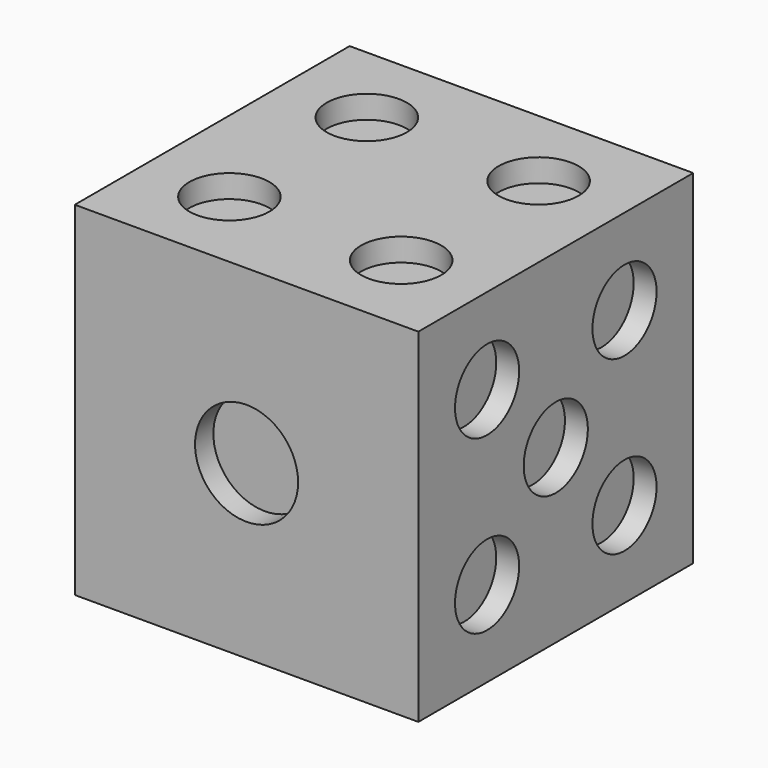
from build123d import *

# Parameters (mm, degrees)
F0_W      = 30
F0_H      = 30
F1_DEPTH  = 15
F2_R      = 4.5
F3_DEPTH  = 2
F5_R      = 3.5
F6_DEPTH  = 2
F7_R      = 3.5
F8_DEPTH  = 2
F9_R      = 3.5
F10_DEPTH = 2
F11_R     = 3.5
F12_DEPTH = 2
F13_R     = 3.5
F14_DEPTH = 2


with BuildPart() as f1:
    # F0 (on Front) → F1 (new body, symmetric)
    with BuildSketch(Plane.XZ):
        Rectangle(F0_W, F0_H)
    extrude(amount=F1_DEPTH, both=True)

    # F2 (on face) → F3 (cut)
    with BuildSketch(Plane.XZ.offset(15)):
        Circle(F2_R)
    extrude(amount=-F3_DEPTH, mode=Mode.SUBTRACT)

    # F5 (on face) → F6 (cut)
    with BuildSketch(Plane(origin=(0, 15, 0), x_dir=(-1, 0, 0), z_dir=(0, 1, 0))):
        with Locations((-7.5, 0)):
            Circle(F5_R)
        with Locations((-7.5, 9.25)):
            Circle(F5_R)
        with Locations((-7.5, -9.25)):
            Circle(F5_R)
        with Locations((7.5, 0)):
            Circle(F5_R)
        with Locations((7.5, -9.25)):
            Circle(F5_R)
        with Locations((7.5, 9.25)):
            Circle(F5_R)
    extrude(amount=-F6_DEPTH, mode=Mode.SUBTRACT)

    # F7 (on face) → F8 (cut)
    with BuildSketch(Plane.XY.offset(15)):
        with Locations((-7.5, 7.5)):
            Circle(F7_R)
        with Locations((7.5, 7.5)):
            Circle(F7_R)
        with Locations((7.5, -7.5)):
            Circle(F7_R)
        with Locations((-7.5, -7.5)):
            Circle(F7_R)
    extrude(amount=-F8_DEPTH, mode=Mode.SUBTRACT)

    # F9 (on face) → F10 (cut)
    with BuildSketch(Plane(origin=(0, 0, -15), x_dir=(1, 0, 0), z_dir=(0, 0, -1))):
        Circle(F9_R)
        with Locations((-7.5, -7.5)):
            Circle(F9_R)
        with Locations((7.5, 7.5)):
            Circle(F9_R)
    extrude(amount=-F10_DEPTH, mode=Mode.SUBTRACT)

    # F11 (on face) → F12 (cut)
    with BuildSketch(Plane.YZ.offset(15)):
        with Locations((-7.5, 7.5)):
            Circle(F11_R)
        with Locations((7.5, 7.5)):
            Circle(F11_R)
        with Locations((7.5, -7.5)):
            Circle(F11_R)
        with Locations((-7.5, -7.5)):
            Circle(F11_R)
        Circle(F11_R)
    extrude(amount=-F12_DEPTH, mode=Mode.SUBTRACT)

    # F13 (on face) → F14 (cut)
    with BuildSketch(Plane(origin=(-15, 0, 0), x_dir=(0, -1, 0), z_dir=(-1, 0, 0))):
        with Locations((-7.5, -7.5)):
            Circle(F13_R)
        with Locations((7.5, 7.5)):
            Circle(F13_R)
    extrude(amount=-F14_DEPTH, mode=Mode.SUBTRACT)


solid = f1.part
